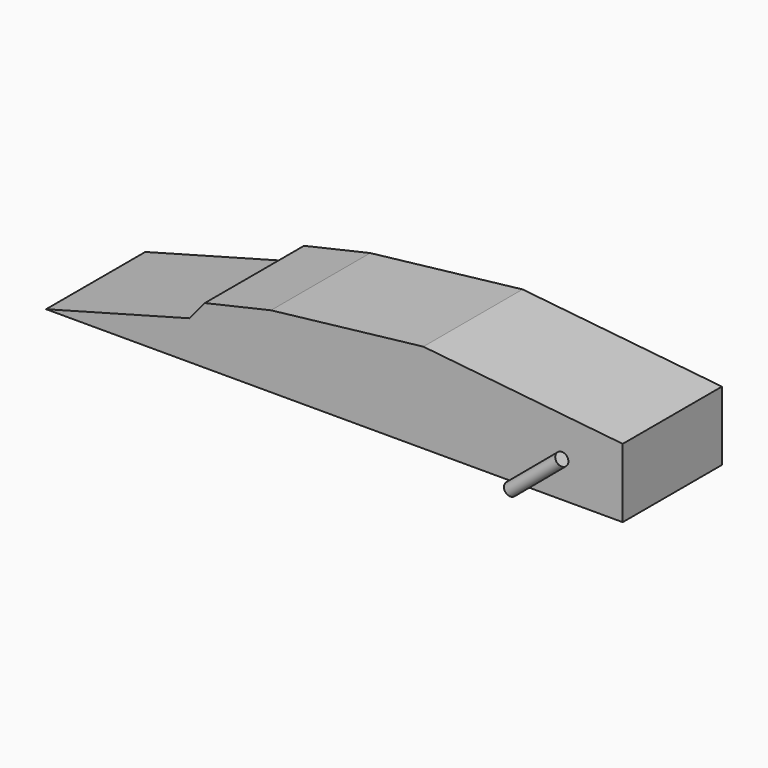
from build123d import *

# Parameters (mm, degrees)
F1_DEPTH = 38.1
F4_START = 18.542
F3_R     = 1.9716608836
F4_DEPTH = 20.574


with BuildPart() as f1:
    # F0 (on Front) → F1 (new body)
    with BuildSketch(Plane.XZ):
        Polygon((-56.1172738671, 11.8851000443), (-100.2269238234, 0), (76.946824789, 0), (76.946824789, 21.1971364915), (15.6834311783, 27.5685302913), (-31.1218071729, 22.177349776), (-51.4612570405, 17.5213329494), align=None)
    extrude(amount=F1_DEPTH)


with BuildPart() as f4:
    # F3 (on face) → F4 (new body)
    with BuildSketch(Plane(origin=(55.5918025247, 0, 46.647060995), x_dir=(0, -1, 0), z_dir=(-0.7660444431, 0, -0.6427876097)).offset(F4_START)):
        with Locations((40.3853207827, -29.053658247)):
            Circle(F3_R)
    extrude(amount=F4_DEPTH)


solid = Compound([f1.part, f4.part])
